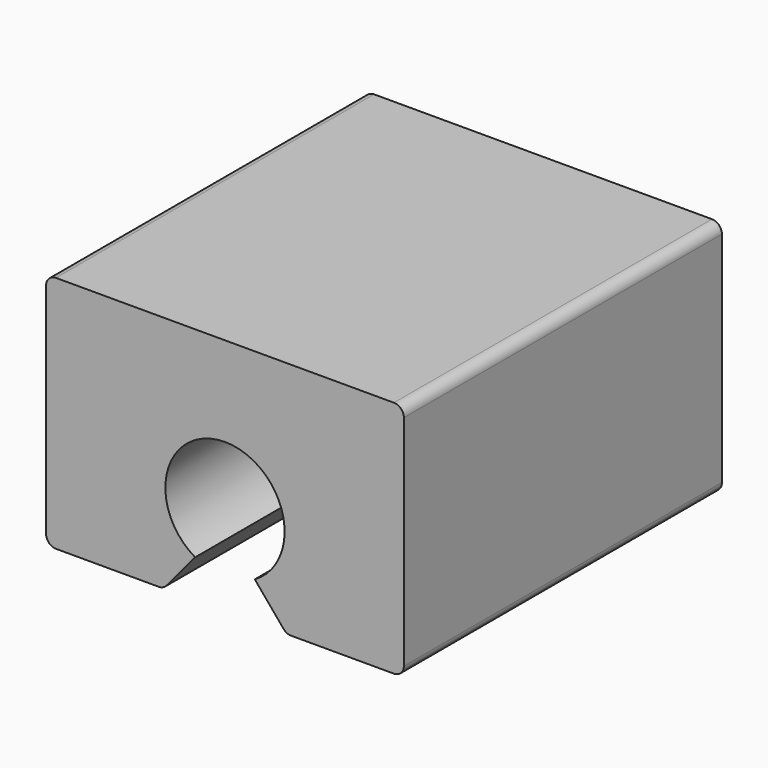
from build123d import *

# Parameters (mm, degrees)
F1_DEPTH = 40


with BuildPart() as f1:
    # F0 (on Front) → F1 (new body)
    with BuildSketch(Plane.XZ):
        with BuildLine():
            ThreePointArc((-18, -2.803848), (-17.707107, -3.510954), (-17, -3.803848))
            Line((-17, -3.803848), (-6.658115, -3.803848))
            ThreePointArc((-6.658115, -3.803848), (-6.235496, -3.710155), (-5.89207, -3.446635))
            Line((-5.89207, -3.446635), (-3, 0))
            ThreePointArc((-3, 0), (0, 11.196152), (3, 0))
            Line((3, 0), (5.89207, -3.446635))
            ThreePointArc((5.89207, -3.446635), (6.235496, -3.710155), (6.658115, -3.803848))
            Line((6.658115, -3.803848), (17, -3.803848))
            ThreePointArc((17, -3.803848), (17.707107, -3.510954), (18, -2.803848))
            Line((18, -2.803848), (18, 19.196152))
            ThreePointArc((18, 19.196152), (17.707107, 19.903259), (17, 20.196152))
            Line((17, 20.196152), (-17, 20.196152))
            ThreePointArc((-17, 20.196152), (-17.707107, 19.903259), (-18, 19.196152))
            Line((-18, 19.196152), (-18, -2.803848))
        make_face()
    extrude(amount=F1_DEPTH)


solid = f1.part
